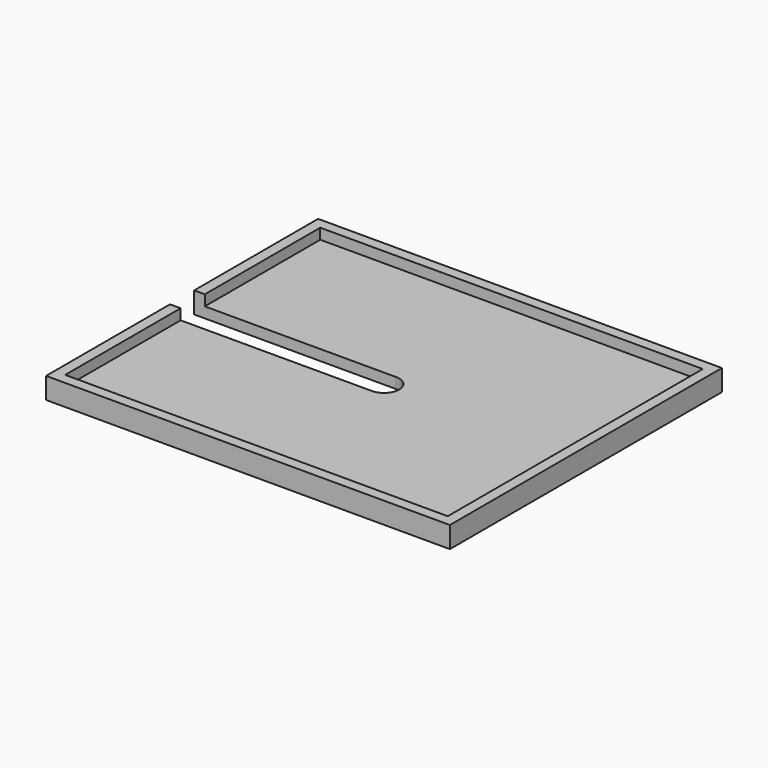
from build123d import *

# Parameters (mm, degrees)
F0_W     = 96.52
F0_H     = 5.08
F1_DEPTH = 40.64
F2_T     = -2.54
F3_W     = 48.26
F3_H     = 7.2280052118
F4_DEPTH = 5.081


with BuildPart() as f1:
    # F0 (on Front) → F1 (new body, symmetric)
    with BuildSketch(Plane.XZ):
        Rectangle(F0_W, F0_H)
    extrude(amount=F1_DEPTH, both=True)

    # F2
    f2_openings = [f1.faces().sort_by_distance(p)[0] for p in [
        (0, 0, 2.54),
    ]]
    offset(amount=F2_T, openings=f2_openings)

    # F3 (on face) → F4 (cut, through all)
    with BuildSketch(Plane(origin=(0, 0, -2.54), x_dir=(1, 0, 0), z_dir=(0, 0, -1))):
        with BuildLine():
            ThreePointArc((0, -3.6140026059), (3.6140026059, 0), (0, 3.6140026059))
            Line((0, 3.6140026059), (0, -3.6140026059))
        make_face()
        with Locations((-24.13, 0)):
            Rectangle(F3_W, F3_H)
    extrude(amount=-F4_DEPTH, mode=Mode.SUBTRACT)


solid = f1.part
